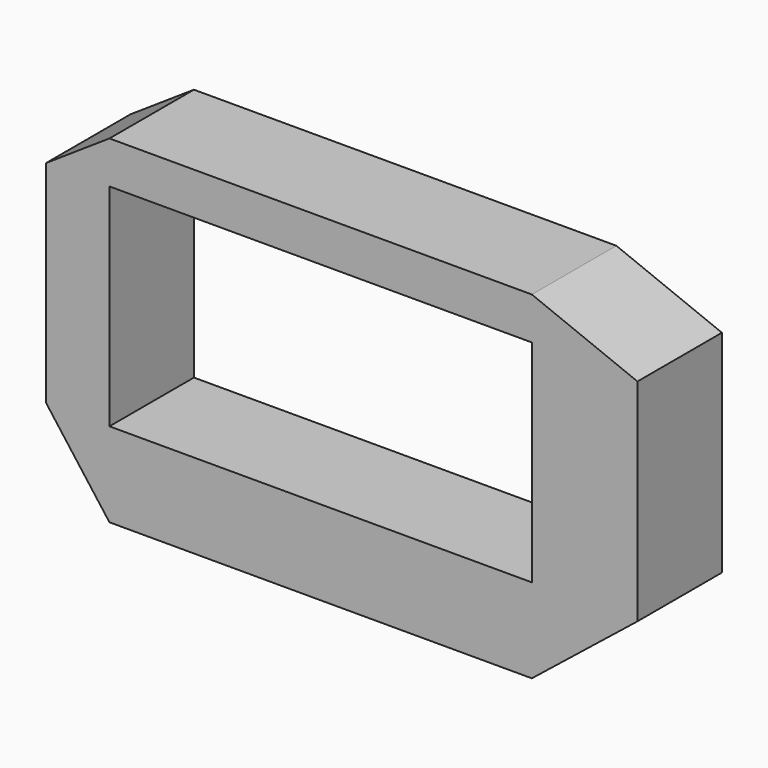
from build123d import *

# Parameters (mm, degrees)
F0_W     = 20
F0_H     = 10
F1_DEPTH = 5


with BuildPart() as f1:
    # F0 (on Front) → F1 (new body)
    with BuildSketch(Plane.XZ):
        Polygon((-19.999881, -4), (0, -4), (0.000144, -4), (5, -1.9e-05), (5, 9.999916), (0.000211, 12), (-19.999627, 12), (-23, 9.999751), (-23, -9e-05), align=None)
        with Locations((-10, 5)):
            Rectangle(F0_W, F0_H, mode=Mode.SUBTRACT)
    extrude(amount=F1_DEPTH)


solid = f1.part
